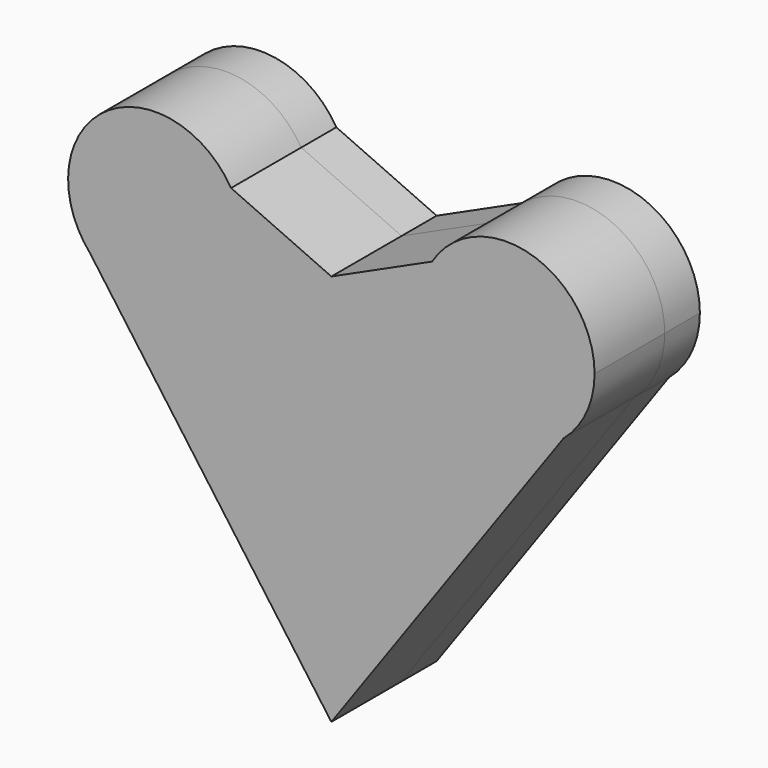
from build123d import *

# Parameters (mm, degrees)
F1_DEPTH = 12.7
F2_DEPTH = 25.4


with BuildPart() as f1:
    # F0 (on Front) → F1 (new body, symmetric)
    with BuildSketch(Plane.XZ):
        with BuildLine():
            ThreePointArc((-29.0375235578, 38.4978860547), (-26.3262701899, 32.1968043362), (-25.4, 25.4))
            Line((-25.4, 25.4), (0, 25.4))
            Line((0, 25.4), (-29.0375235578, 38.4978860547))
        make_face()
        Polygon((0, 25.4), (-25.4, 25.4), (-25.4, -25.4), (25.4, -25.4), (25.4, 25.4), align=None)
        with BuildLine():
            ThreePointArc((-69.8004189401, 8.5434262052), (-41.7847529451, 1.6537303869), (-25.4, 25.4))
            ThreePointArc((-25.4, 25.4), (-26.3262701899, 32.1968043362), (-29.0375235578, 38.4978860547))
            ThreePointArc((-29.0375235578, 38.4978860547), (-65.8407664908, 45.867910088), (-69.8004189401, 8.5434262052))
        make_face()
        with BuildLine():
            Line((-25.4, -25.4), (-25.4, 25.4))
            ThreePointArc((-25.4, 25.4), (-41.7847529451, 1.6537303869), (-69.8004189401, 8.5434262052))
            Line((-69.8004189401, 8.5434262052), (0, -88.1159007549))
            Line((0, -88.1159007549), (67.238440457, 6.0366925516))
            ThreePointArc((67.238440457, 6.0366925516), (40.1317383704, 2.3490088325), (25.4, 25.4))
            Line((25.4, 25.4), (25.4, -25.4))
            Line((25.4, -25.4), (-25.4, -25.4))
        make_face()
        with BuildLine():
            Line((29.1495412646, 38.6822301044), (0, 25.4))
            Line((0, 25.4), (25.4, 25.4))
            ThreePointArc((25.4, 25.4), (26.3553517935, 32.3006647549), (29.1495412646, 38.6822301044))
        make_face()
        with BuildLine():
            ThreePointArc((29.1495412646, 38.6822301044), (26.3553517935, 32.3006647549), (25.4, 25.4))
            ThreePointArc((25.4, 25.4), (40.1317383704, 2.3490088325), (67.238440457, 6.0366925516))
            ThreePointArc((67.238440457, 6.0366925516), (73.8509911675, 14.7317383704), (76.2, 25.4))
            ThreePointArc((76.2, 25.4), (57.7006647549, 49.8446482065), (29.1495412646, 38.6822301044))
        make_face()
    extrude(amount=F1_DEPTH, both=True)


with BuildPart() as f2:
    # F0 (on Front) → F2 (new body)
    with BuildSketch(Plane.XZ):
        with BuildLine():
            ThreePointArc((-29.0375235578, 38.4978860547), (-26.3262701899, 32.1968043362), (-25.4, 25.4))
            Line((-25.4, 25.4), (0, 25.4))
            Line((0, 25.4), (-29.0375235578, 38.4978860547))
        make_face()
        Polygon((0, 25.4), (-25.4, 25.4), (-25.4, -25.4), (25.4, -25.4), (25.4, 25.4), align=None)
        with BuildLine():
            ThreePointArc((-69.8004189401, 8.5434262052), (-41.7847529451, 1.6537303869), (-25.4, 25.4))
            ThreePointArc((-25.4, 25.4), (-26.3262701899, 32.1968043362), (-29.0375235578, 38.4978860547))
            ThreePointArc((-29.0375235578, 38.4978860547), (-65.8407664908, 45.867910088), (-69.8004189401, 8.5434262052))
        make_face()
        with BuildLine():
            Line((-25.4, -25.4), (-25.4, 25.4))
            ThreePointArc((-25.4, 25.4), (-41.7847529451, 1.6537303869), (-69.8004189401, 8.5434262052))
            Line((-69.8004189401, 8.5434262052), (0, -88.1159007549))
            Line((0, -88.1159007549), (67.238440457, 6.0366925516))
            ThreePointArc((67.238440457, 6.0366925516), (40.1317383704, 2.3490088325), (25.4, 25.4))
            Line((25.4, 25.4), (25.4, -25.4))
            Line((25.4, -25.4), (-25.4, -25.4))
        make_face()
        with BuildLine():
            Line((29.1495412646, 38.6822301044), (0, 25.4))
            Line((0, 25.4), (25.4, 25.4))
            ThreePointArc((25.4, 25.4), (26.3553517935, 32.3006647549), (29.1495412646, 38.6822301044))
        make_face()
        with BuildLine():
            ThreePointArc((29.1495412646, 38.6822301044), (26.3553517935, 32.3006647549), (25.4, 25.4))
            ThreePointArc((25.4, 25.4), (40.1317383704, 2.3490088325), (67.238440457, 6.0366925516))
            ThreePointArc((67.238440457, 6.0366925516), (73.8509911675, 14.7317383704), (76.2, 25.4))
            ThreePointArc((76.2, 25.4), (57.7006647549, 49.8446482065), (29.1495412646, 38.6822301044))
        make_face()
    extrude(amount=F2_DEPTH)


solid = Compound([f1.part, f2.part])
